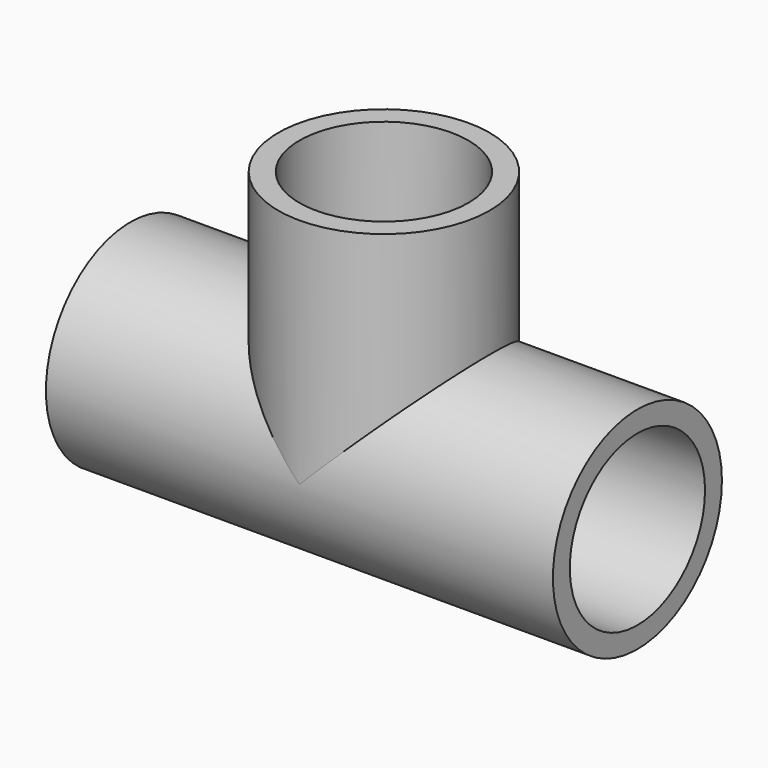
from build123d import *

# Parameters (mm, degrees)
F0_R     = 12.5
F1_DEPTH = 30
F2_R     = 12.5
F3_DEPTH = 27.5
F4_R     = 10
F5_DEPTH = 30
F6_R     = 10
F7_DEPTH = 45


with BuildPart() as f1:
    # F0 (on Right) → F1 (new body, symmetric)
    with BuildSketch(Plane.YZ):
        Circle(F0_R)
    extrude(amount=F1_DEPTH, both=True)

    # F2 (on Top) → F3 (join)
    with BuildSketch(Plane.XY):
        Circle(F2_R)
    extrude(amount=F3_DEPTH)

    # F4 (on Right) → F5 (cut, symmetric)
    with BuildSketch(Plane.YZ):
        Circle(F4_R)
    extrude(amount=F5_DEPTH, both=True, mode=Mode.SUBTRACT)

    # F6 (on Top) → F7 (cut)
    with BuildSketch(Plane.XY):
        Circle(F6_R)
    extrude(amount=F7_DEPTH, mode=Mode.SUBTRACT)


solid = f1.part
